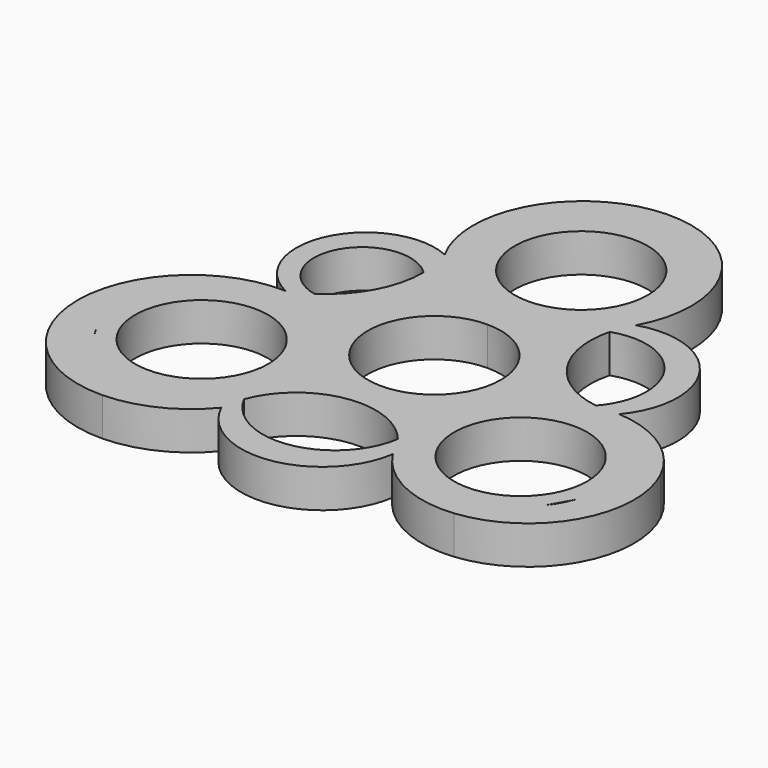
from build123d import *

# Parameters (mm, degrees)
F0_R     = 11.049
F1_DEPTH = 6.35


with BuildPart() as f1:
    # F0 (on Top) → F1 (new body)
    with BuildSketch(Plane.XY):
        with BuildLine():
            ThreePointArc((13.9900267073, 42.191013886), (7.0856169162, 43.8816195339), (1.001e-07, 44.45))
            ThreePointArc((1.001e-07, 44.45), (-8.1127014874, 43.7033931701), (-15.9528722093, 41.4886534883))
            ThreePointArc((-15.9528722093, 41.4886534883), (-18.8508822531, 32.2986856143), (-16.6280791163, 22.9224860668))
            ThreePointArc((-16.6280791163, 22.9224860668), (-15.8658789133, 20.1464210948), (-15.6090878752, 17.2790975622))
            ThreePointArc((-15.6090878752, 17.2790975622), (-17.5525161747, 9.6016065701), (-22.9146844129, 3.773405023))
            ThreePointArc((-22.9146844129, 3.773405023), (-24.5849396697, 2.8183178083), (-26.356998831, 2.0688176155))
            ThreePointArc((-26.356998831, 2.0688176155), (-36.5044925545, -0.529991355), (-43.6973944973, -8.1449502237))
            ThreePointArc((-43.6973944973, -8.1449502237), (-41.7877364398, -15.1521478094), (-38.7624793768, -21.7548314763))
            ThreePointArc((-38.7624793768, -21.7548314763), (-29.6282610574, -1.7859753114), (-12.3702381212, -15.3635231449))
            ThreePointArc((-12.3702381212, -15.3635231449), (-22.3396426217, -28.7484450965), (-38.018933275, -23.0296159897))
            ThreePointArc((-38.018933275, -23.0296159897), (-32.9149121168, -29.8732499126), (-26.5966764592, -35.6148747201))
            ThreePointArc((-26.5966764592, -35.6148747201), (-18.7298982199, -33.736427955), (-12.3747177422, -28.7337843329))
            ThreePointArc((-12.3747177422, -28.7337843329), (-12.1077253896, -26.8478523844), (-11.5717802867, -25.020070374))
            ThreePointArc((-11.5717802867, -25.020070374), (-1.3693127664, -16.6255914205), (10.9906537522, -21.2934440388))
            ThreePointArc((10.9906537522, -21.2934440388), (12.2133658929, -23.0689970739), (13.13038636, -25.020070374))
            ThreePointArc((13.13038636, -25.020070374), (20.2980282513, -31.3766165327), (29.7323518206, -33.0422419823))
            ThreePointArc((29.7323518206, -33.0422419823), (33.8520296012, -28.8069885944), (37.3735987968, -24.0627640345))
            ThreePointArc((37.3735987968, -24.0627640345), (13.3667253576, -10.5788234649), (40.5015365819, -15.2530769271))
            ThreePointArc((40.5015365819, -15.2530769271), (40.2743565397, -17.7622201291), (39.6002052135, -20.1897559927))
            ThreePointArc((39.6002052135, -20.1897559927), (42.1478196292, -14.1196246586), (43.7709726947, -7.7397964674))
            ThreePointArc((43.7709726947, -7.7397964674), (37.7292227786, -0.852924429), (29.046183452, 2.0688176155))
            ThreePointArc((29.046183452, 2.0688176155), (27.1074059125, 1.9329851963), (25.168628373, 2.0688176155))
            ThreePointArc((25.168628373, 2.0688176155), (15.5450488675, 8.1144987903), (13.6462865444, 19.3197763418))
            ThreePointArc((13.6462865444, 19.3197763418), (14.2680191104, 21.1739149673), (15.1437362656, 22.9224860668))
            ThreePointArc((15.1437362656, 22.9224860668), (17.3461160042, 32.7231575742), (13.9900267073, 42.191013886))
        make_face()
        with BuildLine():
            ThreePointArc((14.0337661536, -0.0455333574), (-9.7919450545, -9.9463341625), (0, 13.9243211114))
            ThreePointArc((0, 13.9243211114), (9.9194773617, 9.8552674478), (14.0337661536, -0.0455333574))
        make_face(mode=Mode.SUBTRACT)
        with BuildLine():
            ThreePointArc((13.97, 30.48), (9.8782817332, 20.6017182668), (0, 16.51))
            ThreePointArc((0, 16.51), (-13.97, 30.4800000501), (1.001e-07, 44.45))
            ThreePointArc((1.001e-07, 44.45), (9.8782817686, 40.3582816978), (13.97, 30.48))
        make_face(mode=Mode.SUBTRACT)
        with BuildLine():
            ThreePointArc((14.0337661536, -0.0455333574), (9.9194773617, 9.8552674478), (0, 13.9243211114))
            ThreePointArc((0, 13.9243211114), (-9.7919450545, -9.9463341625), (14.0337661536, -0.0455333574))
        make_face()
        with BuildLine():
            ThreePointArc((0, 11.049), (7.8128228253, 7.8128228253), (11.049, 0))
            ThreePointArc((11.049, 0), (-7.8128228253, -7.8128228253), (0, 11.049))
        make_face(mode=Mode.SUBTRACT)
        with BuildLine():
            ThreePointArc((1.001e-07, 44.45), (-13.97, 30.4800000501), (0, 16.51))
            ThreePointArc((0, 16.51), (9.8782817332, 20.6017182668), (13.97, 30.48))
            ThreePointArc((13.97, 30.48), (9.8782817686, 40.3582816978), (1.001e-07, 44.45))
        make_face()
        with BuildLine():
            ThreePointArc((11.049, 30.48), (7.8128228253, 22.6671771747), (0, 19.431))
            ThreePointArc((0, 19.431), (-7.8128228253, 38.2928228253), (11.049, 30.48))
        make_face(mode=Mode.SUBTRACT)
        with BuildLine():
            ThreePointArc((-12.3702381212, -15.3635231449), (-29.6282610574, -1.7859753114), (-38.7624793768, -21.7548314763))
            ThreePointArc((-38.7624793768, -21.7548314763), (-38.3959972014, -22.3953097524), (-38.018933275, -23.0296159897))
            ThreePointArc((-38.018933275, -23.0296159897), (-22.3396426217, -28.7484450965), (-12.3702381212, -15.3635231449))
        make_face()
        with Locations((-26.3402381212, -15.3635231449)):
            Circle(F0_R, mode=Mode.SUBTRACT)
        with BuildLine():
            ThreePointArc((37.3735987968, -24.0627640345), (38.5355897032, -22.1542507484), (39.6002052135, -20.1897559927))
            ThreePointArc((39.6002052135, -20.1897559927), (40.2743565397, -17.7622201291), (40.5015365819, -15.2530769271))
            ThreePointArc((40.5015365819, -15.2530769271), (13.3667253576, -10.5788234649), (37.3735987968, -24.0627640345))
        make_face()
        with Locations((26.5315365819, -15.2530769271)):
            Circle(F0_R, mode=Mode.SUBTRACT)
        with BuildLine():
            ThreePointArc((-38.7624793768, -21.7548314763), (-41.7877364398, -15.1521478094), (-43.6973944973, -8.1449502237))
            ThreePointArc((-43.6973944973, -8.1449502237), (-42.9395681626, -26.7309598149), (-26.5966764592, -35.6148747201))
            ThreePointArc((-26.5966764592, -35.6148747201), (-32.9149121168, -29.8732499126), (-38.018933275, -23.0296159897))
            ThreePointArc((-38.018933275, -23.0296159897), (-38.4075515273, -22.4020490671), (-38.7624793768, -21.7548314763))
        make_face()
        with BuildLine():
            ThreePointArc((-11.5717802867, -25.020070374), (-12.1077253896, -26.8478523844), (-12.3747177422, -28.7337843329))
            ThreePointArc((-12.3747177422, -28.7337843329), (1.7565735529, -36.3458547771), (13.13038636, -25.020070374))
            ThreePointArc((13.13038636, -25.020070374), (12.2133658929, -23.0689970739), (10.9906537522, -21.2934440388))
            ThreePointArc((10.9906537522, -21.2934440388), (1.0648132035, -31.3627294368), (-11.5717802867, -25.020070374))
        make_face()
        with BuildLine():
            ThreePointArc((29.046183452, 2.0688176155), (29.875596689, 17.6827436404), (15.1437362656, 22.9224860668))
            ThreePointArc((15.1437362656, 22.9224860668), (14.2680191104, 21.1739149673), (13.6462865444, 19.3197763418))
            ThreePointArc((13.6462865444, 19.3197763418), (26.0608319773, 15.138250311), (25.168628373, 2.0688176155))
            ThreePointArc((25.168628373, 2.0688176155), (27.1074059125, 1.9329851963), (29.046183452, 2.0688176155))
        make_face()
        with BuildLine():
            ThreePointArc((-15.6090878752, 17.2790975622), (-15.8658789133, 20.1464210948), (-16.6280791163, 22.9224860668))
            ThreePointArc((-16.6280791163, 22.9224860668), (-31.7457216544, 17.2790975622), (-26.356998831, 2.0688176155))
            ThreePointArc((-26.356998831, 2.0688176155), (-24.5849396697, 2.8183178083), (-22.9146844129, 3.773405023))
            ThreePointArc((-22.9146844129, 3.773405023), (-28.3246437936, 15.4285434715), (-15.6090878752, 17.2790975622))
        make_face()
        with BuildLine():
            ThreePointArc((-15.9528722093, 41.4886534883), (-8.1127014874, 43.7033931701), (1.001e-07, 44.45))
            ThreePointArc((1.001e-07, 44.45), (7.0856169162, 43.8816195339), (13.9900267073, 42.191013886))
            ThreePointArc((13.9900267073, 42.191013886), (-1.1671052189, 49.7558144069), (-15.9528722093, 41.4886534883))
        make_face()
        with BuildLine():
            ThreePointArc((29.7323518206, -33.0422419823), (43.3672029043, -24.0615366442), (43.7709726947, -7.7397964674))
            ThreePointArc((43.7709726947, -7.7397964674), (42.1478196292, -14.1196246586), (39.6002052135, -20.1897559927))
            ThreePointArc((39.6002052135, -20.1897559927), (38.6427219172, -22.2158414481), (37.3735987968, -24.0627640345))
            ThreePointArc((37.3735987968, -24.0627640345), (33.8520296012, -28.8069885944), (29.7323518206, -33.0422419823))
        make_face()
    extrude(amount=F1_DEPTH)


solid = f1.part
